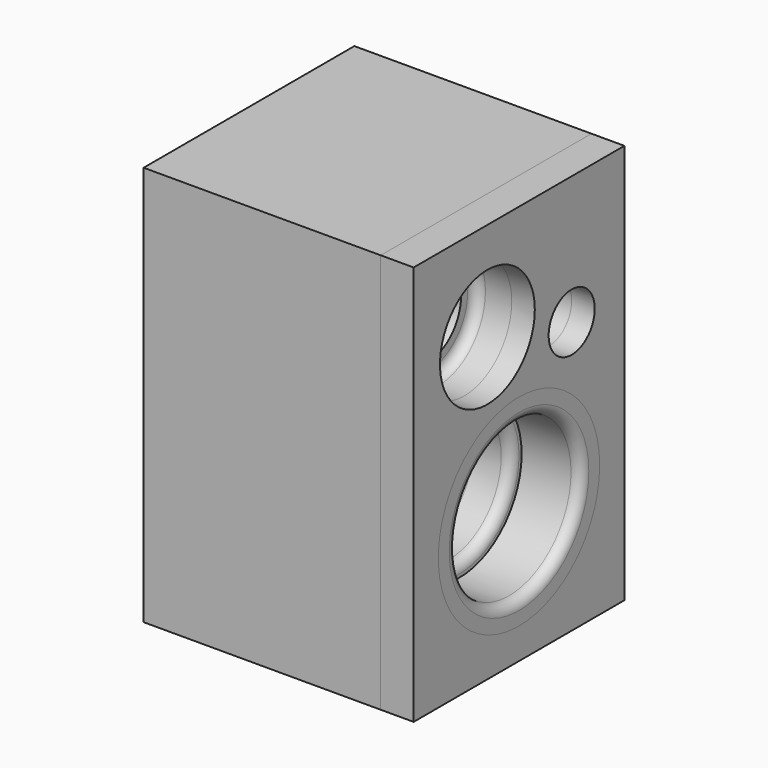
from build123d import *

# Parameters (mm, degrees)
F0_W     = 203.2
F0_H     = 308.61
F0_R     = 77.7875
F0_R_2   = 45.72
F0_R_3   = 22.225
F0_R_4   = 59.69
F0_R_5   = 49.53
F0_R_6   = 31.75
F1_DEPTH = 208.28
F2_DEPTH = 25.4
F3_DEPTH = 82.55
F4_DEPTH = 45.72
F5_R     = 7.62
F5_2_R   = 7.62
F6_ANGLE = -90


with BuildPart() as f1:
    # F0 (on Front) → F1 (new body)
    with BuildSketch(Plane.XZ):
        with Locations((0, -3.0008565319)):
            Rectangle(F0_W, F0_H)
        with Locations((0, -55.7058565319)):
            Circle(F0_R, mode=Mode.SUBTRACT)
        with Locations((-30.48, 75.1041434681)):
            Circle(F0_R_2, mode=Mode.SUBTRACT)
        with Locations((50.8, 52.2441434681)):
            Circle(F0_R_3, mode=Mode.SUBTRACT)
        with Locations((0, -55.7058565319)):
            Circle(F0_R)
        with Locations((0, -55.7058565319)):
            Circle(F0_R_4, mode=Mode.SUBTRACT)
        with Locations((0, -55.7058565319)):
            Circle(F0_R_4)
        with Locations((0, -55.7058565319)):
            Circle(F0_R_5, mode=Mode.SUBTRACT)
        with Locations((0, -55.7058565319)):
            Circle(F0_R_5)
        with Locations((-30.48, 75.1041434681)):
            Circle(F0_R_2)
        with Locations((-30.48, 75.1041434681)):
            Circle(F0_R_6, mode=Mode.SUBTRACT)
        with Locations((-30.48, 75.1041434681)):
            Circle(F0_R_6)
        with Locations((50.8, 52.2441434681)):
            Circle(F0_R_3)
    extrude(amount=-F1_DEPTH)

    # F0 (on Front) → F3 (cut)
    with BuildSketch(Plane.XZ):
        with Locations((-30.48, 75.1041434681)):
            Circle(F0_R_6)
        with Locations((50.8, 52.2441434681)):
            Circle(F0_R_3)
        with Locations((0, -55.7058565319)):
            Circle(F0_R_5)
    extrude(amount=-F3_DEPTH, mode=Mode.SUBTRACT)

    # F0 (on Front) → F4 (cut)
    with BuildSketch(Plane.XZ):
        with Locations((-30.48, 75.1041434681)):
            Circle(F0_R_2)
        with Locations((-30.48, 75.1041434681)):
            Circle(F0_R_6, mode=Mode.SUBTRACT)
        with Locations((0, -55.7058565319)):
            Circle(F0_R_4)
        with Locations((0, -55.7058565319)):
            Circle(F0_R_5, mode=Mode.SUBTRACT)
    extrude(amount=-F4_DEPTH, mode=Mode.SUBTRACT)

    # F5
    f5_edges = [f1.edges().sort_by_distance(p)[0] for p in [
        (-76.2, 0, 75.104143),
        (28.575, 0, 52.244143),
        (-59.69, 0, -55.705857),
        (-49.53, 45.72, -55.705857),
        (-49.53, 82.55, -55.705857),
        (-76.2, 45.72, 75.104143),
    ]]
    fillet(f5_edges, radius=F5_R)


with BuildPart() as f2:
    # F0 (on Front) → F2 (new body)
    with BuildSketch(Plane.XZ):
        with Locations((0, -3.0008565319)):
            Rectangle(F0_W, F0_H)
        with Locations((0, -55.7058565319)):
            Circle(F0_R, mode=Mode.SUBTRACT)
        with Locations((-30.48, 75.1041434681)):
            Circle(F0_R_2, mode=Mode.SUBTRACT)
        with Locations((50.8, 52.2441434681)):
            Circle(F0_R_3, mode=Mode.SUBTRACT)
    extrude(amount=-F2_DEPTH)

    # F5#2
    f5_2_edges = [f2.edges().sort_by_distance(p)[0] for p in [
        (-76.2, 25.4, 75.104143),
        (28.575, 25.4, 52.244143),
    ]]
    fillet(f5_2_edges, radius=F5_2_R)


with BuildPart() as f1_1:
    # F6: moved
    add(f1.part.rotate(Axis((101.6, 0, -3.0008565319), (0, 0, -1)), F6_ANGLE))


with BuildPart() as f2_1:
    # F6: moved
    add(f2.part.rotate(Axis((101.6, 0, -3.0008565319), (0, 0, -1)), F6_ANGLE))


solid = Compound([f1_1.part, f2_1.part])
